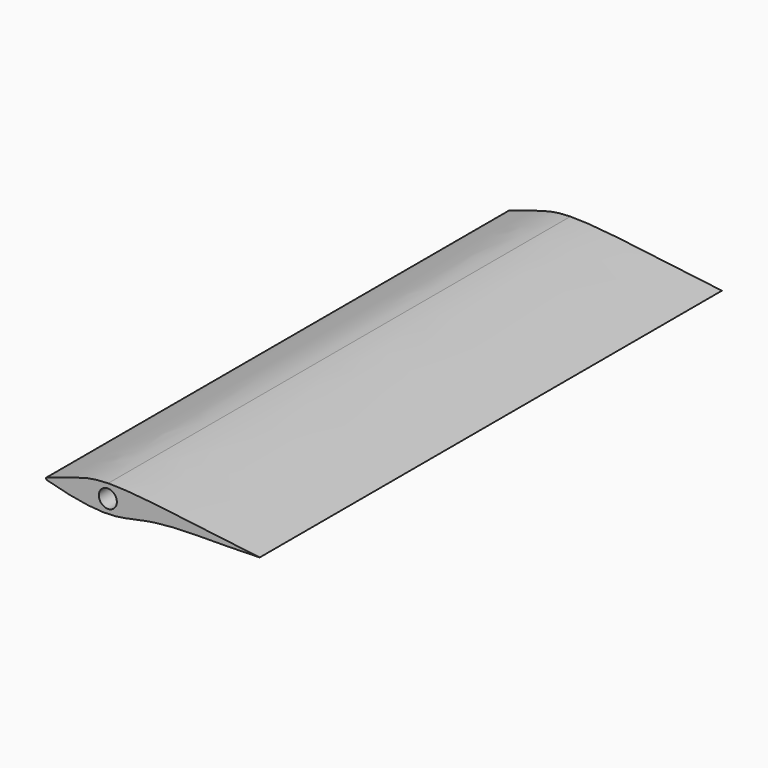
from build123d import *

# Parameters (mm, degrees)
F1_DEPTH = 203.2
F2_R     = 0.4572
F4_D     = 6.35
F4_DEPTH = 38.1
F4_TIP   = 1.9077324654
F6_D     = 6.35
F6_DEPTH = 38.1
F6_TIP   = 1.9077324654


with BuildPart() as f1:
    # F0 (on Front) → F1 (new body)
    with BuildSketch(Plane.XZ):
        with BuildLine():
            add(Edge.make_bspline(
                [(-38.1, 0), (-34.4441864827, 1.2920368177), (-26.95104764, 3.6195004694), (-20.7833617632, 5.5276849917), (-15.2969222444, 5.630961033), (-15.1960243732, 5.6325568112)],
                knots=[0, 0, 0, 0, 0.2363471103, 0.4820415784, 0.4866091448, 0.4866091448, 0.4866091448, 0.4866091448], degree=3))
            add(Edge.make_bspline(
                [(-38.1, 0), (-30.7497908276, -2.1111429684), (-14.6549478088, -5.7693781378), (2.035200574, 0.5658720515), (24.7528447254, -0.5727221795), (38.1, 0)],
                knots=[0, 0, 0, 0, 0.3210287592, 0.5986235858, 1, 1, 1, 1], degree=3))
            add(Edge.make_bspline(
                [(-15.1960243732, 5.6325568112), (-3.8551833656, 5.8119210215), (17.1392039574, 2.3385772884), (38.1, 0)],
                knots=[0.4866091448, 0.4866091448, 0.4866091448, 0.4866091448, 1, 1, 1, 1], degree=3))
        make_face()
    extrude(amount=-F1_DEPTH)

    # F2
    f2_edges = [f1.edges().sort_by_distance(p)[0] for p in [
        (-38.1, 101.6, 0),
    ]]
    fillet(f2_edges, radius=F2_R)

    # F4
    with Locations(Plane(origin=(0, 203.2, 0), x_dir=(-1, 0, 0), z_dir=(0, 1, 0))):
        with Locations((15.1381986216, 1.0112618329)):
            Hole(F4_D / 2, depth=F4_DEPTH)
            with Locations((0, 0, -(F4_DEPTH + F4_TIP / 2))):  # 118° drill point
                Cone(0, F4_D / 2, F4_TIP, mode=Mode.SUBTRACT)

    # F6
    with Locations(Plane.XZ):
        with Locations((-15.3210880235, 0.8506519371)):
            Hole(F6_D / 2, depth=F6_DEPTH)
            with Locations((0, 0, -(F6_DEPTH + F6_TIP / 2))):  # 118° drill point
                Cone(0, F6_D / 2, F6_TIP, mode=Mode.SUBTRACT)


solid = f1.part
